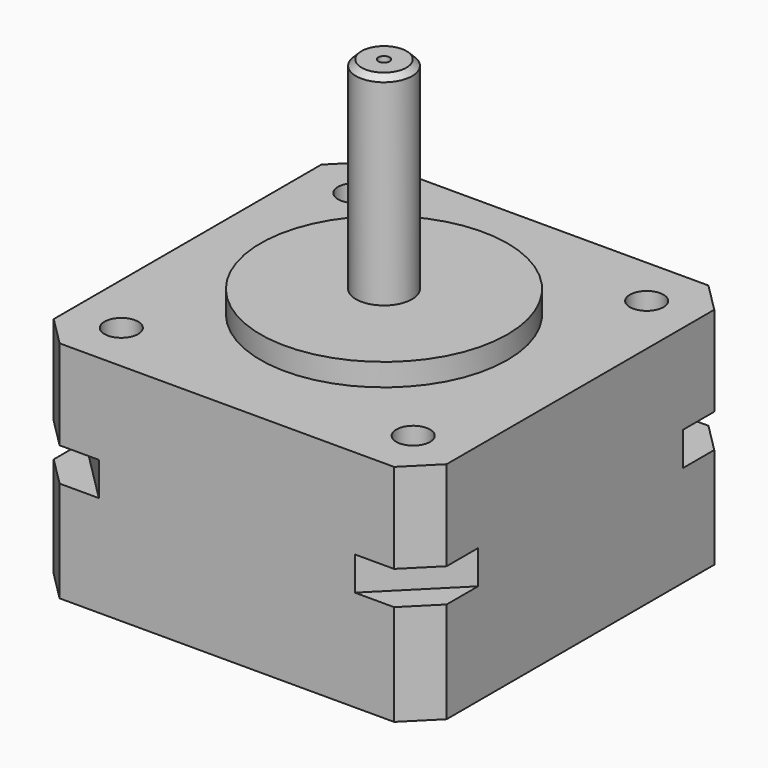
from build123d import *

# Parameters (mm, degrees)
F0_W      = 35
F0_H      = 35
F1_DEPTH  = 1.5
F2_SIZE   = 6.1
F3_W      = 35
F3_H      = 35
F4_DEPTH  = 8
F5_SIZE   = 2.6
F7_DEPTH  = 9
F8_R      = 11
F9_DEPTH  = 2
F10_R     = 2.5
F11_DEPTH = 18
F12_R     = 1.5
F13_DEPTH = 6
F14_SIZE  = 0.5
F16_D     = 1
F16_DEPTH = 3
F16_TIP   = 0.3004303095


with BuildPart() as f1:
    # F0 (on Top) → F1 (new body, symmetric)
    with BuildSketch(Plane.XY):
        Rectangle(F0_W, F0_H)
    extrude(amount=F1_DEPTH, both=True)

    # F2
    f2_edges = [f1.edges().sort_by_distance(p)[0] for p in [
        (-17.5, -17.5, 0),
        (17.5, -17.5, 0),
        (17.5, 17.5, 0),
        (-17.5, 17.5, 0),
    ]]
    chamfer(f2_edges, length=F2_SIZE)

    # F3 (on face) → F4 (join)
    with BuildSketch(Plane.XY.offset(1.5)):
        Rectangle(F3_W, F3_H)
    extrude(amount=F4_DEPTH)

    # F5
    f5_edges = [f1.edges().sort_by_distance(p)[0] for p in [
        (-17.5, -17.5, 5.5),
        (17.5, -17.5, 5.5),
        (17.5, 17.5, 5.5),
        (-17.5, 17.5, 5.5),
    ]]
    chamfer(f5_edges, length=F5_SIZE)

    # F6 (on face) → F7 (join)
    with BuildSketch(Plane(origin=(0, 0, -1.5), x_dir=(1, 0, 0), z_dir=(0, 0, -1))):
        Polygon((-14.9, -17.5), (14.9, -17.5), (17.5, -14.9), (17.5, 14.9), (14.9, 17.5), (-14.9, 17.5), (-17.5, 14.9), (-17.5, -14.9), align=None)
    extrude(amount=F7_DEPTH)

    # F8 (on face) → F9 (join)
    with BuildSketch(Plane.XY.offset(9.5)):
        Circle(F8_R)
    extrude(amount=F9_DEPTH)

    # F10 (on face) → F11 (join)
    with BuildSketch(Plane.XY.offset(11.5)):
        Circle(F10_R)
    extrude(amount=F11_DEPTH)

    # F12 (on face) → F13 (cut)
    with BuildSketch(Plane.XY.offset(9.5)):
        with Locations((-13, 13)):
            Circle(F12_R)
        with Locations((13, 13)):
            Circle(F12_R)
        with Locations((-13, -13)):
            Circle(F12_R)
        with Locations((13, -13)):
            Circle(F12_R)
    extrude(amount=-F13_DEPTH, mode=Mode.SUBTRACT)

    # F14
    f14_edges = [f1.edges().sort_by_distance(p)[0] for p in [
        (-2.5, 0, 29.5),
    ]]
    chamfer(f14_edges, length=F14_SIZE)

    # F16
    with Locations(Plane.XY.offset(29.5)):
        with Locations((0, 0)):
            Hole(F16_D / 2, depth=F16_DEPTH)
            with Locations((0, 0, -(F16_DEPTH + F16_TIP / 2))):  # 118° drill point
                Cone(0, F16_D / 2, F16_TIP, mode=Mode.SUBTRACT)


solid = f1.part
